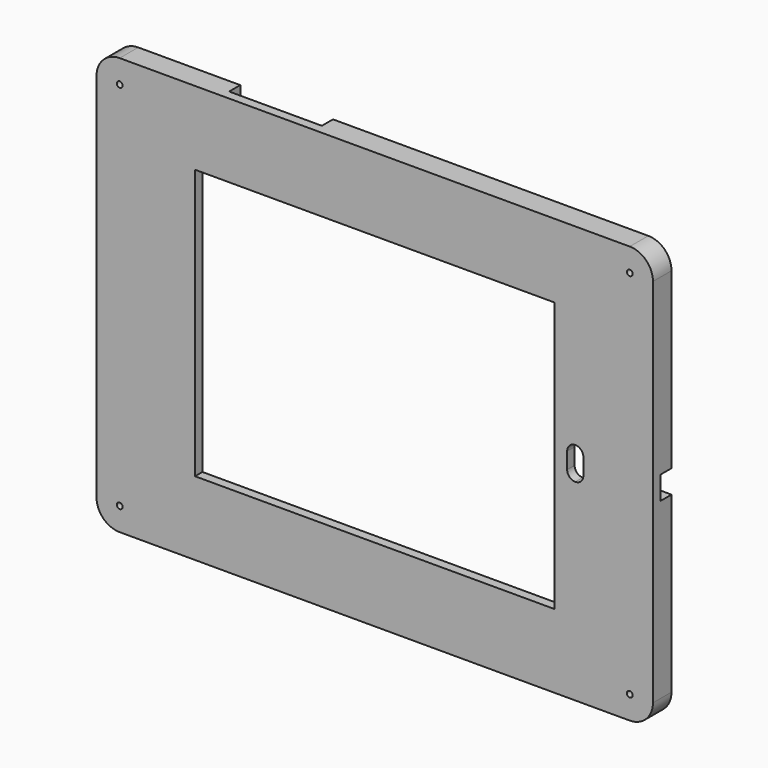
from build123d import *

# Parameters (mm, degrees)
F0_R     = 1.5875
F1_DEPTH = 12.7
F3_DEPTH = 7.62
F4_W     = 196.85
F4_H     = 147.828
F4_R     = 1.5875
F5_DEPTH = 25.4


with BuildPart() as f1:
    # F0 (on Front) → F1 (new body)
    with BuildSketch(Plane.XZ):
        with BuildLine():
            Line((292.1, 228.6), (12.7, 228.6))
            ThreePointArc((12.7, 228.6), (3.719744, 224.880256), (0, 215.9))
            Line((0, 215.9), (0, 12.7))
            ThreePointArc((0, 12.7), (3.719744, 3.719744), (12.7, 0))
            Line((12.7, 0), (292.1, 0))
            ThreePointArc((292.1, 0), (301.080256, 3.719744), (304.8, 12.7))
            Line((304.8, 12.7), (304.8, 215.9))
            ThreePointArc((304.8, 215.9), (301.080256, 224.880256), (292.1, 228.6))
        make_face()
        with Locations((12.7, 12.7)):
            Circle(F0_R, mode=Mode.SUBTRACT)
        with Locations((292.1, 12.7)):
            Circle(F0_R, mode=Mode.SUBTRACT)
        with Locations((12.7, 215.9)):
            Circle(F0_R, mode=Mode.SUBTRACT)
        with Locations((292.1, 215.9)):
            Circle(F0_R, mode=Mode.SUBTRACT)
    extrude(amount=F1_DEPTH)

    # F2 (on face) → F3 (cut)
    with BuildSketch(Plane.XZ):
        with BuildLine():
            ThreePointArc((31.115, 43.307), (34.834744, 34.326744), (43.815, 30.607))
            Line((43.815, 30.607), (260.985, 30.607))
            ThreePointArc((260.985, 30.607), (269.965256, 34.326744), (273.685, 43.307))
            Line((273.685, 43.307), (273.685, 107.95))
            Line((273.685, 107.95), (304.8, 107.95))
            Line((304.8, 107.95), (304.8, 120.65))
            Line((304.8, 120.65), (273.685, 120.65))
            Line((273.685, 120.65), (273.685, 185.293))
            ThreePointArc((273.685, 185.293), (269.965256, 194.273256), (260.985, 197.993))
            Line((260.985, 197.993), (119.38, 197.993))
            Line((119.38, 197.993), (119.38, 228.6))
            Line((119.38, 228.6), (68.58, 228.6))
            Line((68.58, 228.6), (68.58, 197.993))
            Line((68.58, 197.993), (43.815, 197.993))
            ThreePointArc((43.815, 197.993), (34.834744, 194.273256), (31.115, 185.293))
            Line((31.115, 185.293), (31.115, 43.307))
        make_face()
    extrude(amount=F3_DEPTH, mode=Mode.SUBTRACT)

    # F4 (on face) → F5 (cut)
    with BuildSketch(Plane.XZ):
        with Locations((152.4, 114.3)):
            Rectangle(F4_W, F4_H)
        with BuildLine():
            Line((266.7, 109.855), (266.7, 118.745))
            ThreePointArc((266.7, 118.745), (265.39809, 121.88809), (262.255, 123.19))
            ThreePointArc((262.255, 123.19), (259.11191, 121.88809), (257.81, 118.745))
            Line((257.81, 118.745), (257.81, 109.855))
            ThreePointArc((257.81, 109.855), (259.11191, 106.71191), (262.255, 105.41))
            ThreePointArc((262.255, 105.41), (265.39809, 106.71191), (266.7, 109.855))
        make_face()
        with Locations((292.1, 215.9)):
            Circle(F4_R)
        with Locations((12.7, 215.9)):
            Circle(F4_R)
        with Locations((12.7, 12.7)):
            Circle(F4_R)
        with Locations((292.1, 12.7)):
            Circle(F4_R)
    extrude(amount=F5_DEPTH, mode=Mode.SUBTRACT)


solid = f1.part
